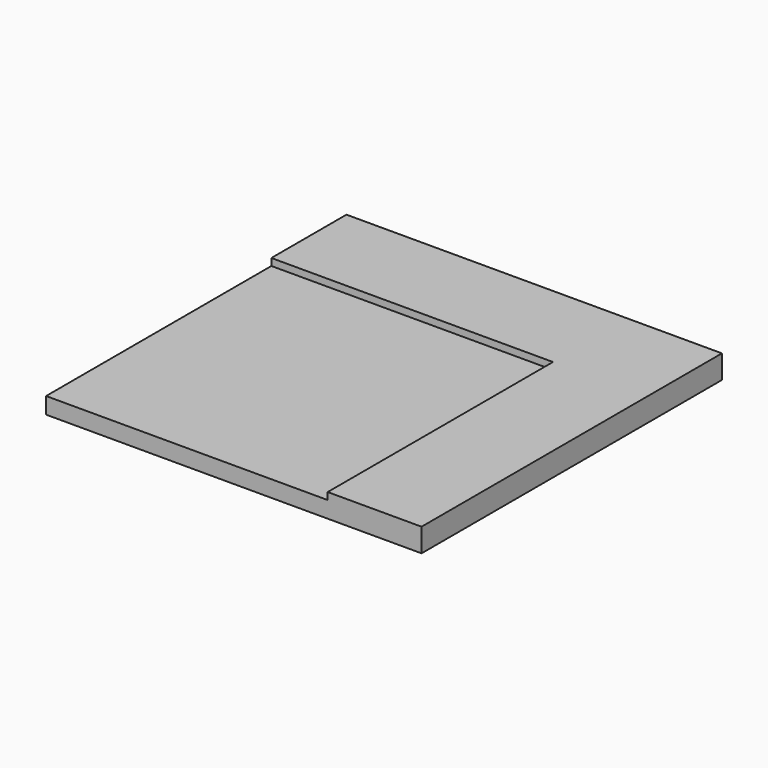
from build123d import *

# Parameters (mm, degrees)
SKETCH_W     = 160
SKETCH_H     = 160
PAD_DEPTH    = 10
SKETCH001_W  = 120
SKETCH001_H  = 120
POCKET_DEPTH = 3


with BuildPart() as part:
    # Sketch → Pad (new body)
    with BuildSketch(Plane.XY):
        with Locations((80, 80)):
            Rectangle(SKETCH_W, SKETCH_H)
    extrude(amount=PAD_DEPTH)

    # Sketch001 (on Face6 of Pad) → Pocket (cut)
    with BuildSketch(Plane.XY.offset(10)):
        with Locations((60, 60)):
            Rectangle(SKETCH001_W, SKETCH001_H)
    extrude(amount=-POCKET_DEPTH, mode=Mode.SUBTRACT)


solid = part.part
